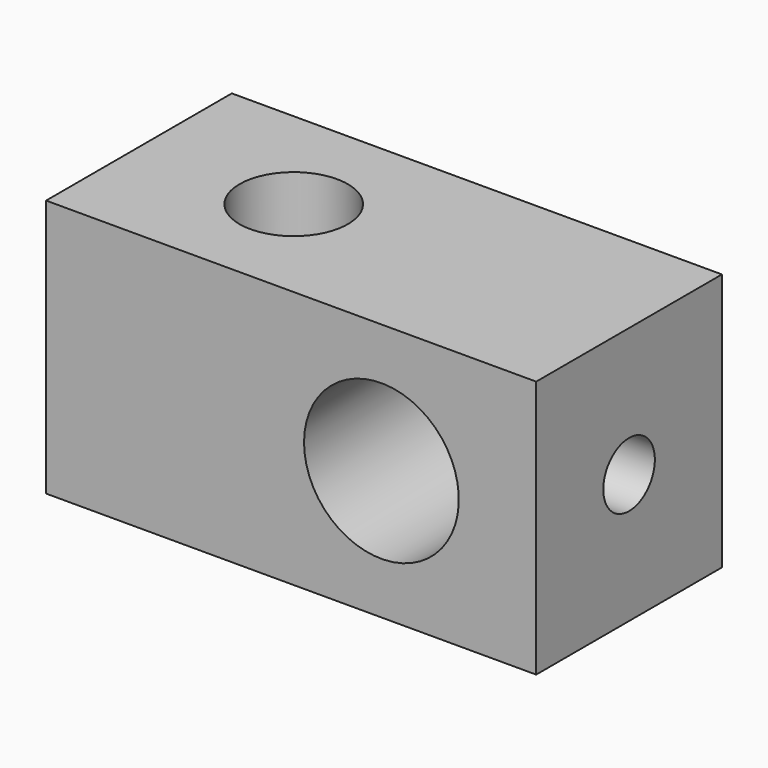
from build123d import *

# Parameters (mm, degrees)
F0_W     = 19
F0_H     = 9
F1_DEPTH = 5
F3_D     = 4.2
F5_D     = 6
F7_D     = 2.5
F7_DEPTH = 5
F7_TIP   = 0.7510757738
F9_D     = 2.5
F9_DEPTH = 6
F9_TIP   = 0.7510757738


with BuildPart() as f1:
    # F0 (on Top) → F1 (new body, symmetric)
    with BuildSketch(Plane.XY):
        Rectangle(F0_W, F0_H)
    extrude(amount=F1_DEPTH, both=True)

    # F3 (through all)
    with Locations(Plane.XY.offset(5)):
        with Locations((-3.5, 0)):
            Hole(F3_D / 2)

    # F5 (through all)
    with Locations(Plane.XZ.offset(4.5)):
        with Locations((3.5, 0)):
            Hole(F5_D / 2)

    # F7
    with Locations(Plane.YZ.offset(9.5)):
        with Locations((0, 0)):
            Hole(F7_D / 2, depth=F7_DEPTH)
            with Locations((0, 0, -(F7_DEPTH + F7_TIP / 2))):  # 118° drill point
                Cone(0, F7_D / 2, F7_TIP, mode=Mode.SUBTRACT)

    # F9
    with Locations(Plane(origin=(-9.5, 0, 0), x_dir=(0, -1, 0), z_dir=(-1, 0, 0))):
        with Locations((0, 0)):
            Hole(F9_D / 2, depth=F9_DEPTH)
            with Locations((0, 0, -(F9_DEPTH + F9_TIP / 2))):  # 118° drill point
                Cone(0, F9_D / 2, F9_TIP, mode=Mode.SUBTRACT)


solid = f1.part
